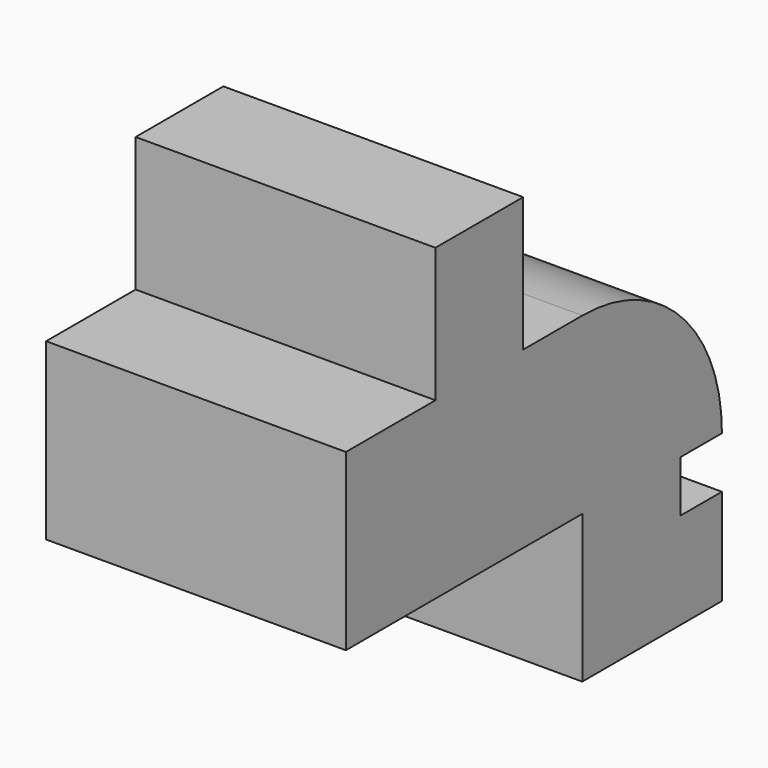
from build123d import *

# Parameters (mm, degrees)
F0_W     = 9.290261
F0_H     = 11.375831
F1_DEPTH = 25.4


with BuildPart() as f1:
    # F0 (on Right) → F1 (new body)
    with BuildSketch(Plane.YZ):
        Polygon((-35.454668, 24.647629), (-44.934526, 24.647629), (-44.934526, 9.859052), (-19.907702, 9.859052), (-19.907702, 24.647629), (-26.164407, 24.647629), align=None)
        with Locations((-30.809537, 30.335544)):
            Rectangle(F0_W, F0_H)
        Polygon((-9.479858, 9.859052), (-19.907702, 9.859052), (-19.907702, -2.65436), (-5.119123, -2.65436), (-5.119123, 5.498318), (-9.479858, 5.498318), align=None)
        with BuildLine():
            Line((-19.907702, 24.647629), (-19.907702, 9.859052))
            Line((-19.907702, 9.859052), (-9.479858, 9.859052))
            Line((-9.479858, 9.859052), (-5.119123, 9.859052))
            ThreePointArc((-5.119123, 9.859052), (-9.450598, 20.316156), (-19.907702, 24.647629))
        make_face()
    extrude(amount=F1_DEPTH)


solid = f1.part
